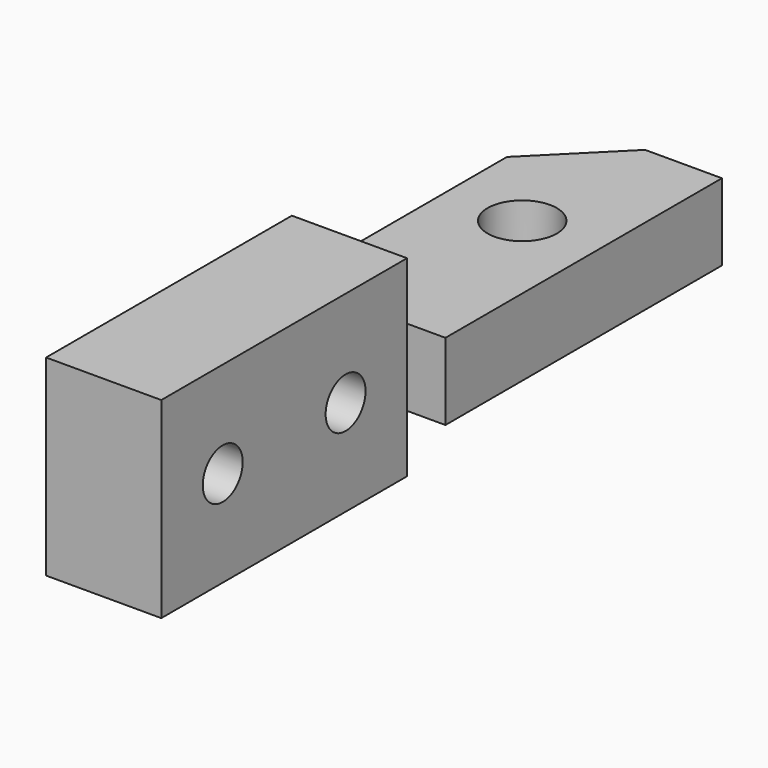
from build123d import *

# Parameters (mm, degrees)
CYLINDER087_R           = 1.3
CYLINDER087_DEPTH       = 40
CYLINDER087_PITCH_ANGLE = 90
CYLINDER086_R           = 1.3
CYLINDER086_DEPTH       = 40
CYLINDER086_PITCH_ANGLE = 90
CYLINDER085_R           = 1.3
CYLINDER085_DEPTH       = 40
CYLINDER085_PITCH_ANGLE = 90
CYLINDER067_R           = 1.8
CYLINDER067_DEPTH       = 40
BOX034_W                = 4
BOX034_H                = 16
BOX034_DEPTH            = 10
BOX031_W                = 8
BOX031_H                = 34
BOX031_DEPTH            = 4
BOX033_W                = 6
BOX033_H                = 16
BOX033_DEPTH            = 10
CHAMFER008_SIZE         = 4


with BuildPart() as cylinder365:
    # Cylinder087 → Cylinder087 (new body)
    with BuildSketch(Plane.XY):
        Circle(CYLINDER087_R)
    extrude(amount=CYLINDER087_DEPTH)


with BuildPart() as cylinder365_1:
    # Cylinder087 pitch: moved
    add(cylinder365.part.rotate(Axis((0, 0, 0), (0, 1, 0)), CYLINDER087_PITCH_ANGLE))


with BuildPart() as cylinder365_2:
    # Cylinder087 placement: moved
    add(cylinder365_1.part.moved(Location((-48, 7, 30))))


with BuildPart() as cylinder364:
    # Cylinder086 → Cylinder086 (new body)
    with BuildSketch(Plane.XY):
        Circle(CYLINDER086_R)
    extrude(amount=CYLINDER086_DEPTH)


with BuildPart() as cylinder364_1:
    # Cylinder086 pitch: moved
    add(cylinder364.part.rotate(Axis((0, 0, 0), (0, 1, 0)), CYLINDER086_PITCH_ANGLE))


with BuildPart() as cylinder364_2:
    # Cylinder086 placement: moved
    add(cylinder364_1.part.moved(Location((-67, -15, 30))))


with BuildPart() as hinge_screw_holes_b003:
    # Cylinder085 → Cylinder085 (new body)
    with BuildSketch(Plane.XY):
        Circle(CYLINDER085_R)
    extrude(amount=CYLINDER085_DEPTH)


with BuildPart() as hinge_screw_holes_b003_1:
    # Cylinder085 pitch: moved
    add(hinge_screw_holes_b003.part.rotate(Axis((0, 0, 0), (0, 1, 0)), CYLINDER085_PITCH_ANGLE))


with BuildPart() as hinge_screw_holes_b003_2:
    # Cylinder085 placement: moved
    add(hinge_screw_holes_b003_1.part.moved(Location((-92, -7, 30))))

    # Fusion057: union Cylinder364
    add(cylinder364_2.part)

    # Fusion058: union Cylinder365
    add(cylinder365_2.part)


with BuildPart() as cylinder345:
    # Cylinder067 → Cylinder067 (new body)
    with BuildSketch(Plane(origin=(-56, 7, 15), x_dir=(1, 0, 0), z_dir=(0, 0, 1))):
        Circle(CYLINDER067_R)
    extrude(amount=CYLINDER067_DEPTH)


with BuildPart() as cube022:
    # Box034 → Box034 (new body)
    with BuildSketch(Plane(origin=(-54, -19, 25), x_dir=(1, 0, 0), z_dir=(0, 0, 1))):
        with Locations((2, 8)):
            Rectangle(BOX034_W, BOX034_H)
    extrude(amount=BOX034_DEPTH)


with BuildPart() as cut038:
    # Box031 → Box031 (new body)
    with BuildSketch(Plane(origin=(-60, -19, 28), x_dir=(1, 0, 0), z_dir=(0, 0, 1))):
        with Locations((4, 17)):
            Rectangle(BOX031_W, BOX031_H)
    extrude(amount=BOX031_DEPTH)

    # Cut038: cut Cube022
    add(cube022.part, mode=Mode.SUBTRACT)


with BuildPart() as switch_rocker_f:
    # Box033 → Box033 (new body)
    with BuildSketch(Plane(origin=(-60, -19, 25), x_dir=(1, 0, 0), z_dir=(0, 0, 1))):
        with Locations((3, 8)):
            Rectangle(BOX033_W, BOX033_H)
    extrude(amount=BOX033_DEPTH)

    # Fusion044: union Cut038
    add(cut038.part)

    # Cut039: cut Cylinder345
    add(cylinder345.part, mode=Mode.SUBTRACT)

    # Cut047: cut hinge-screw-holes-b003
    add(hinge_screw_holes_b003_2.part, mode=Mode.SUBTRACT)

    # Chamfer008
    chamfer008_edges = [switch_rocker_f.edges().sort_by_distance(p)[0] for p in [
        (-60, 15, 30),
    ]]
    chamfer(chamfer008_edges, length=CHAMFER008_SIZE)


solid = switch_rocker_f.part
